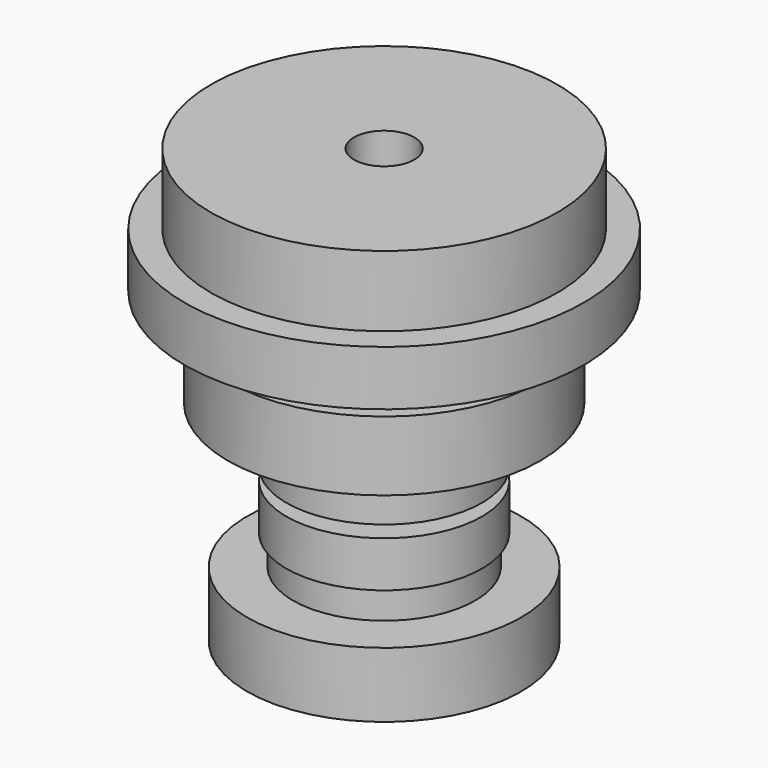
from build123d import *

# Parameters (mm, degrees)
F0_W   = 9.636704
F0_H   = 13.694263
F0_W_2 = 2.15558
F0_H_2 = 2.535973
F0_W_3 = 1.584984
F0_H_3 = 6.339937
F0_W_4 = 1.648382
F0_H_4 = 1.775185
F0_W_5 = 0.76079
F0_H_5 = 3.550365
F0_W_6 = 3.486965
F0_H_6 = 18.132223


with BuildPart() as f1:
    # F0 (on Right) → F1 (revolve)
    with BuildSketch(Plane.YZ):
        with Locations((-27.768923, -13.187068)):
            Rectangle(F0_W, F0_H)
        Polygon((-45.774341, 44.633154), (-29.797703, 44.633154), (-29.797703, 56.171838), (-40.195201, 56.171838), (-45.774341, 56.171838), align=None)
        with Locations((-28.719913, 43.365167)):
            Rectangle(F0_W_2, F0_H_2)
        Polygon((-36.644835, 23.964962), (-16.357036, 23.964962), (-16.357036, 38.546816), (-29.797703, 38.546816), (-30.558493, 38.546816), (-36.644835, 38.546816), align=None)
        Polygon((-24.345357, 22.189777), (-24.345357, 12.172678), (-12.553074, 12.172678), (-12.553074, 22.189777), (-14.708654, 22.189777), (-16.357036, 22.189777), align=None)
        Polygon((-21.365587, 0), (-18.385816, 0), (-18.385816, 9.636704), (-24.345357, 9.636704), (-24.345357, 0), (-22.950571, 0), align=None)
        with Locations((-22.158079, -3.169968)):
            Rectangle(F0_W_3, F0_H_3)
        with Locations((-15.532845, 23.077369)):
            Rectangle(F0_W_4, F0_H_4)
        with Locations((-30.178098, 40.321998)):
            Rectangle(F0_W_5, F0_H_5)
        Polygon((-40.195201, 56.171838), (-29.797703, 56.171838), (-16.357036, 56.171838), (-10.143898, 56.171838), (-10.143898, 71.007289), (-40.195201, 71.007289), align=None)
        Polygon((-10.143898, 56.171838), (-16.357036, 56.171838), (-16.357036, 43.238372), (-10.080499, 43.238372), (-6.593534, 43.238372), (-3.803962, 43.238372), (-3.803962, 56.171838), align=None)
        with Locations((-8.337017, 34.172261)):
            Rectangle(F0_W_6, F0_H_6)
    revolve(axis=Axis((0, -3.803962, 49.705105), (0, 0, -1)))


solid = f1.part
